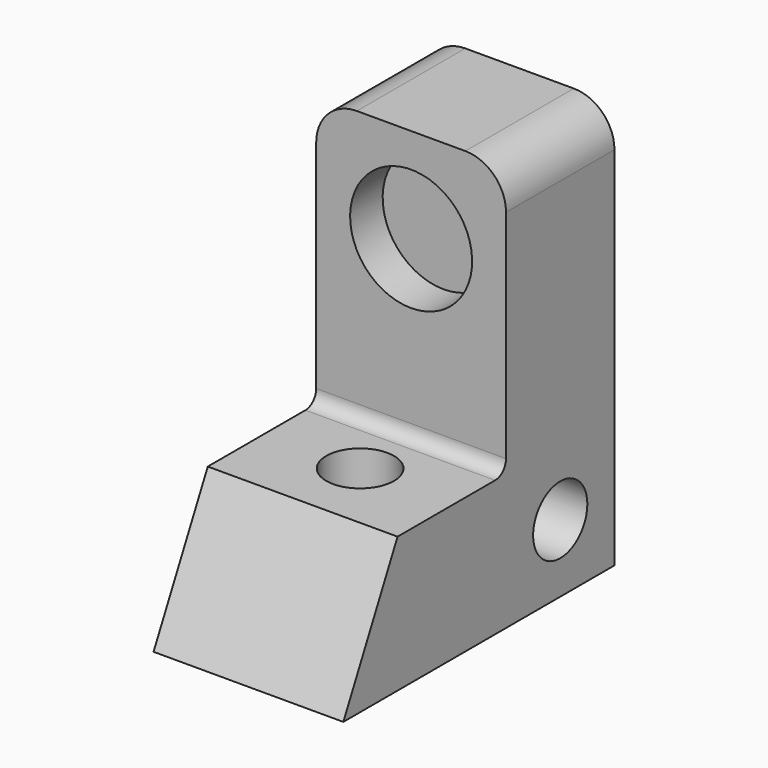
from build123d import *

# Parameters (mm, degrees)
SKETCH002_R     = 2.5
PAD001_DEPTH    = 7
SKETCH003_R     = 4.5
POCKET001_DEPTH = 3
FILLET_R        = 3
SKETCH004_R     = 2.5
POCKET002_DEPTH = 10.001
FILLET001_R     = 1


with BuildPart() as part:
    # Sketch002 → Pad001 (new body, symmetric)
    with BuildSketch(Plane.YZ):
        Polygon((10, 10), (20, 10), (20, 30), (30, 30), (30, 0), (5, 0), align=None)
        with Locations((25, 5)):
            Circle(SKETCH002_R, mode=Mode.SUBTRACT)
    extrude(amount=PAD001_DEPTH, both=True)

    # Sketch003 (on Face2 of Pad001) → Pocket001 (cut)
    with BuildSketch(Plane(origin=(0, 20, 0), x_dir=(0, 0, -1), z_dir=(0, -1, 0))):
        with Locations((-23, 0)):
            Circle(SKETCH003_R)
    extrude(amount=-POCKET001_DEPTH, mode=Mode.SUBTRACT)

    # Fillet
    fillet_edges = [part.edges().sort_by_distance(p)[0] for p in [
        (-7, 25, 30),
        (7, 25, 30),
    ]]
    fillet(fillet_edges, radius=FILLET_R)

    # Sketch004 (on Face4 of Fillet) → Pocket002 (cut, through all)
    with BuildSketch(Plane(origin=(0, 0, 10), x_dir=(0, -1, 0), z_dir=(0, 0, 1))):
        with Locations((-15.3, 0)):
            Circle(SKETCH004_R)
    extrude(amount=-POCKET002_DEPTH, mode=Mode.SUBTRACT)

    # Fillet001
    fillet001_edges = [part.edges().sort_by_distance(p)[0] for p in [
        (0, 20, 10),
    ]]
    fillet(fillet001_edges, radius=FILLET001_R)


with BuildPart() as part_1:
    # Body001 placement: moved
    add(part.part.moved(Location((-35, 0, 0))))


solid = part_1.part
